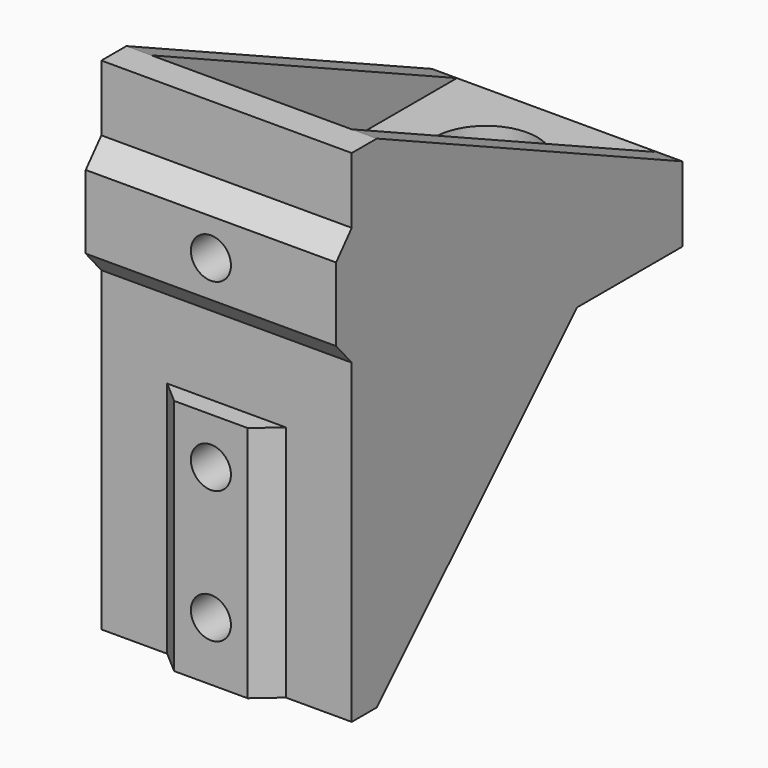
from build123d import *

# Parameters (mm, degrees)
SKETCH_R            = 4.1
PAD_DEPTH           = 6
SKETCH001_W         = 2.5
SKETCH001_H         = 14
PAD001_DEPTH        = 20
PAD002_DEPTH        = 14
PAD003_DEPTH        = 2
LINEARPATTERN_COUNT = 2
LINEARPATTERN_PITCH = 18
POCKET_DEPTH        = 20.001
PAD004_DEPTH        = 20
SKETCH004_R         = 1.6
POCKET001_DEPTH     = 34.561
SKETCH005_W         = 20
SKETCH005_H         = 2.5
PAD005_DEPTH        = 20
SKETCH006_W         = 20
SKETCH006_H         = 20
PAD006_DEPTH        = 3
SKETCH007_W         = 20
SKETCH007_H         = 20
PAD007_DEPTH        = 3
POCKET002_DEPTH     = 20.001
PAD008_DEPTH        = 19
SKETCH010_R         = 1.6
POCKET003_DEPTH     = 34.561


with BuildPart() as part:
    # Sketch → Pad (new body)
    with BuildSketch(Plane.XY):
        Polygon((-4.74, 0), (-2.94, -1.56), (2.94, -1.56), (4.74, 0), (10, 0), (10, 33), (-10, 33), (-10, 0), align=None)
        with Locations((0, 25.9)):
            Circle(SKETCH_R, mode=Mode.SUBTRACT)
    extrude(amount=PAD_DEPTH)

    # Sketch001 (on Face5 of Pad) → Pad001 (join)
    with BuildSketch(Plane.YZ.offset(10)):
        with Locations((1.25, 13)):
            Rectangle(SKETCH001_W, SKETCH001_H)
    extrude(amount=-PAD001_DEPTH)

    # Pad001 Face5 → Pad002 (add)
    with BuildSketch(Plane(origin=(0, -0.719062, 6), x_dir=(0, 1, 0), z_dir=(0, 0, 1))):
        Polygon((0.719062, -4.74), (0.719062, 4.74), (-0.840938, 2.94), (-0.840938, -2.94), align=None)
    extrude(amount=PAD002_DEPTH)

    # Sketch002 (on Face6 of Pad002) → Pad003 (join)
    with BuildSketch(Plane(origin=(-10, 0, 0), x_dir=(0, -1, 0), z_dir=(-1, 0, 0))):
        Polygon((-33, 6), (-2.5, 20), (-2.5, 6), align=None)
    pad003 = extrude(amount=-PAD003_DEPTH)

    # LinearPattern: Pad003 ×2
    with Locations(*[(i * LINEARPATTERN_PITCH, 0, 0) for i in range(1, LINEARPATTERN_COUNT)]):
        add(pad003)

    # LinearPattern Face14 → Pocket (cut, through all)
    with BuildSketch(Plane(origin=(0, -0.719062, 20), x_dir=(0, 1, 0), z_dir=(0, 0, 1))):
        Polygon((0.719062, -4.74), (0.719062, 4.74), (-0.840938, 2.94), (-0.840938, -2.94), align=None)
    extrude(amount=-POCKET_DEPTH, mode=Mode.SUBTRACT)

    # Sketch003 (on Face10 of Pocket) → Pad004 (join)
    with BuildSketch(Plane(origin=(-10, 0, 0), x_dir=(0, -1, 0), z_dir=(-1, 0, 0))):
        Polygon((0, 10), (0, 14.74), (1.56, 12.94), (1.56, 7.06), (0, 5.26), align=None)
    extrude(amount=-PAD004_DEPTH)

    # Sketch004 (on Face14 of Pad004) → Pocket001 (cut, through all)
    with BuildSketch(Plane.XZ.offset(1.56)):
        with Locations((0, 10)):
            Circle(SKETCH004_R)
    extrude(amount=-POCKET001_DEPTH, mode=Mode.SUBTRACT)

    # Sketch005 (on Face2 of Pocket001) → Pad005 (join)
    with BuildSketch(Plane(origin=(0, 0, 0), x_dir=(1, 0, 0), z_dir=(0, 0, -1))):
        with Locations((0, -1.25)):
            Rectangle(SKETCH005_W, SKETCH005_H)
    extrude(amount=PAD005_DEPTH)

    # Sketch006 (on Face18 of Pad005) → Pad006 (join)
    with BuildSketch(Plane.YZ.offset(10)):
        with Locations((12.5, -10)):
            Rectangle(SKETCH006_W, SKETCH006_H)
    extrude(amount=-PAD006_DEPTH)

    # Sketch007 (on Face3 of Pad006) → Pad007 (join)
    with BuildSketch(Plane(origin=(-10, 0, 0), x_dir=(0, -1, 0), z_dir=(-1, 0, 0))):
        with Locations((-12.5, -10)):
            Rectangle(SKETCH007_W, SKETCH007_H)
    extrude(amount=-PAD007_DEPTH)

    # Sketch008 (on Face18 of Pad007) → Pocket002 (cut, through all)
    with BuildSketch(Plane.YZ.offset(10)):
        Polygon((22.5, 0), (2.5, -20), (22.5, -20), align=None)
    extrude(amount=-POCKET002_DEPTH, mode=Mode.SUBTRACT)

    # Sketch009 (on Face9 of Pocket002) → Pad008 (join)
    with BuildSketch(Plane(origin=(0, 0, -20), x_dir=(1, 0, 0), z_dir=(0, 0, -1))):
        Polygon((0, 0), (-4.74, 0), (-2.94, 1.56), (2.94, 1.56), (4.74, 0), align=None)
    extrude(amount=-PAD008_DEPTH)

    # Sketch010 (on Face27 of Pad008) → Pocket003 (cut, through all)
    with BuildSketch(Plane.XZ.offset(1.56)):
        with Locations((0, -4.714)):
            Circle(SKETCH010_R)
        with Locations((0, -15.286)):
            Circle(SKETCH010_R)
    extrude(amount=-POCKET003_DEPTH, mode=Mode.SUBTRACT)


solid = part.part
